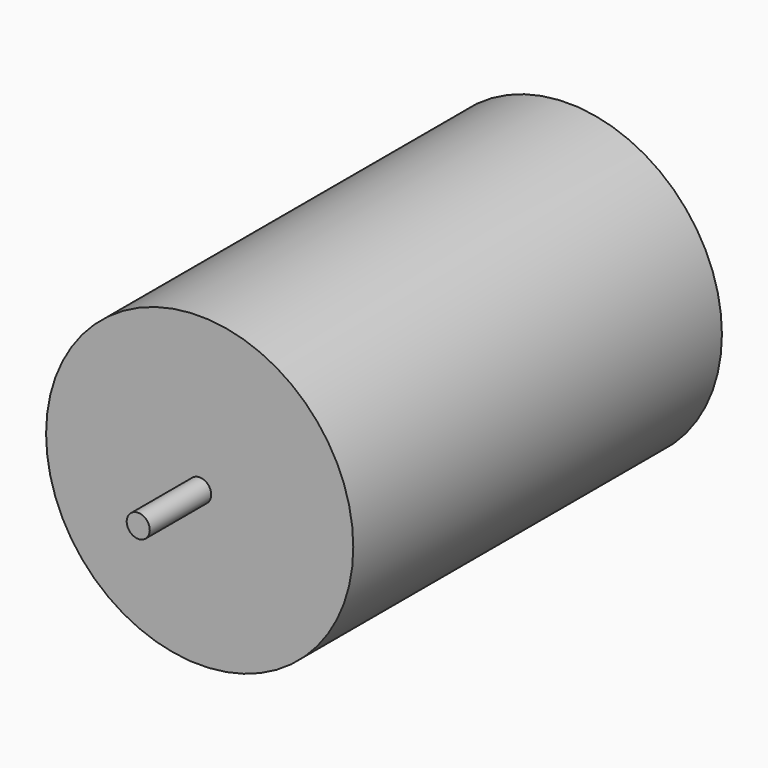
from build123d import *

# Parameters (mm, degrees)
F0_R      = 25.4
F1_DEPTH  = 38.1
F1_FACE_R = 25.4
F2_DEPTH  = 38.1
F4_R      = 1.905
F5_DEPTH  = 12.7
F3_R      = 1.905
F6_DEPTH  = 12.7


with BuildPart() as f1:
    # F0 (on Front) → F1 (new body)
    with BuildSketch(Plane.XZ):
        Circle(F0_R)
    extrude(amount=F1_DEPTH)

    # F1_face (on face) → F2 (join)
    with BuildSketch(Plane(origin=(0, 0, 0), x_dir=(1, 0, 0), z_dir=(0, 1, 0))):
        Circle(F1_FACE_R)
    extrude(amount=F2_DEPTH)

    # F4 (on face) → F5 (join)
    with BuildSketch(Plane(origin=(0, 38.1, 0), x_dir=(-1, 0, 0), z_dir=(0, 1, 0))):
        Circle(F4_R)
    extrude(amount=F5_DEPTH)

    # F3 (on face) → F6 (join)
    with BuildSketch(Plane.XZ.offset(38.1)):
        Circle(F3_R)
    extrude(amount=F6_DEPTH)


solid = f1.part
